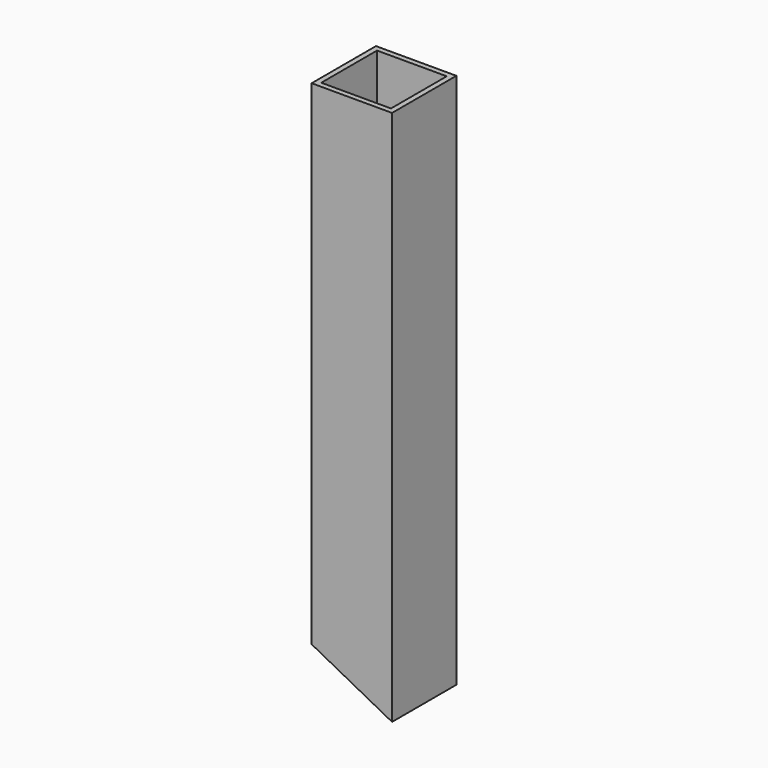
from build123d import *

# Parameters (mm, degrees)
F0_W     = 30
F0_H     = 30
F0_W_2   = 26
F0_H_2   = 26
F1_DEPTH = 200
F3_DEPTH = 30


with BuildPart() as f1:
    # F0 (on Top) → F1 (new body)
    with BuildSketch(Plane.XY):
        with Locations((-15, 16.605095)):
            Rectangle(F0_W, F0_H)
        with Locations((-15, 16.605095)):
            Rectangle(F0_W_2, F0_H_2, mode=Mode.SUBTRACT)
    extrude(amount=F1_DEPTH)

    # F2 (on face) → F3 (cut, through all)
    with BuildSketch(Plane.XZ.offset(-1.605095)):
        Polygon((-30, 0), (0, 0), (-30, 15.750352), align=None)
    extrude(amount=-F3_DEPTH, mode=Mode.SUBTRACT)


solid = f1.part
